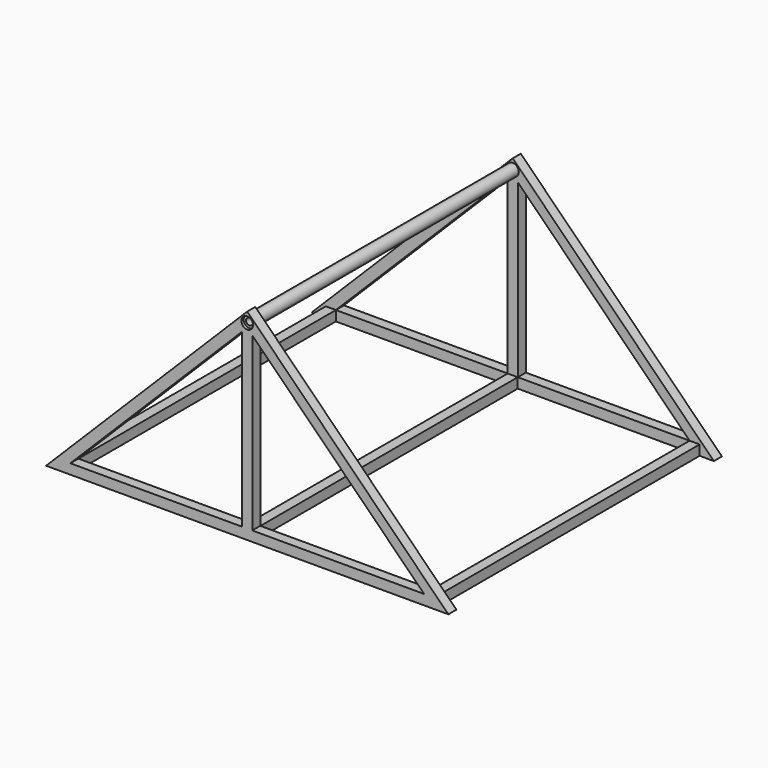
from build123d import *

# Parameters (mm, degrees)
F1_DEPTH       = 25
F6_D           = 17
F6_DEPTH       = 100
F6_CBORE_D     = 29
F6_CBORE_DEPTH = 7
F6_TIP         = 5.1073152617
F8_D           = 17
F8_DEPTH       = 100
F8_CBORE_D     = 29
F8_CBORE_DEPTH = 7
F8_TIP         = 5.1073152617
F9_DEPTH       = 400
F12_DEPTH      = 25
F13_W          = 25
F13_H          = 25
F14_DEPTH      = 800
F15_W          = 25
F15_H          = 25
F16_DEPTH      = 800


with BuildPart() as f1:
    # F0 (on Front) → F1 (new body)
    with BuildSketch(Plane.XZ):
        Polygon((-500, -500), (0, -500), (500, -500), (0, 0), align=None)
        Polygon((-12.5, -47.8553390593), (-12.5, -475), (-439.6446609407, -475), align=None, mode=Mode.SUBTRACT)
        Polygon((439.6446609407, -475), (12.5, -475), (12.5, -47.8553390593), align=None, mode=Mode.SUBTRACT)
    extrude(amount=F1_DEPTH)


with BuildPart() as f3_1:
    # F3: instance of F1
    add(f1.part.mirror(Plane.XZ.offset(-400)))

    # F6
    with Locations(Plane(origin=(0, 825, 0), x_dir=(-1, 0, 0), z_dir=(0, 1, 0))):
        with Locations((0, -25)):
            CounterBoreHole(F6_D / 2, F6_CBORE_D / 2, F6_CBORE_DEPTH, depth=F6_DEPTH)
            with Locations((0, 0, -(F6_DEPTH + F6_TIP / 2))):  # 118° drill point
                Cone(0, F6_D / 2, F6_TIP, mode=Mode.SUBTRACT)


with BuildPart() as f1_1:
    add(f1.part)

    # F8
    with Locations(Plane.XZ.offset(25)):
        with Locations((0, -25)):
            CounterBoreHole(F8_D / 2, F8_CBORE_D / 2, F8_CBORE_DEPTH, depth=F8_DEPTH)
            with Locations((0, 0, -(F8_DEPTH + F8_TIP / 2))):  # 118° drill point
                Cone(0, F8_D / 2, F8_TIP, mode=Mode.SUBTRACT)

    # F4 (on face) → F9 (join)
    with BuildSketch(Plane(origin=(0, 0, 0), x_dir=(-1, 0, 0), z_dir=(0, 1, 0))):
        with BuildLine():
            ThreePointArc((15, -25), (10.6066017178, -14.3933982822), (0, -10))
            ThreePointArc((0, -10), (-10.6066017178, -35.6066017178), (15, -25))
        make_face()
        with BuildLine():
            ThreePointArc((8.5, -25), (-6.0104076401, -31.0104076401), (0, -16.5))
            ThreePointArc((0, -16.5), (6.0104076401, -18.9895923599), (8.5, -25))
        make_face(mode=Mode.SUBTRACT)
    extrude(amount=F9_DEPTH)



with BuildPart() as f1_2:
    add(f1_1.part)

    add(f3_1.part)  # F10 merges F3_1
    # F10: F1 across plane
    add(f1_1.part.mirror(Plane.XZ.offset(-400)))

    # F11 (on face) → F12 (join)
    with BuildSketch(Plane.XY.offset(-475)):
        Polygon((12.4637438569, 800), (-12.5, 800), (-12.5, 0), (12.9191244142, 0), align=None)
    extrude(amount=-F12_DEPTH)

    # F13 (on face) → F14 (join)
    with BuildSketch(Plane.XZ.offset(-800)):
        with Locations((452.1446609407, -487.5)):
            Rectangle(F13_W, F13_H)
    extrude(amount=F14_DEPTH)

    # F15 (on face) → F16 (join)
    with BuildSketch(Plane(origin=(0, 0, 0), x_dir=(-1, 0, 0), z_dir=(0, 1, 0))):
        with Locations((452.1446609407, -487.5)):
            Rectangle(F15_W, F15_H)
    extrude(amount=F16_DEPTH)


solid = f1_2.part
